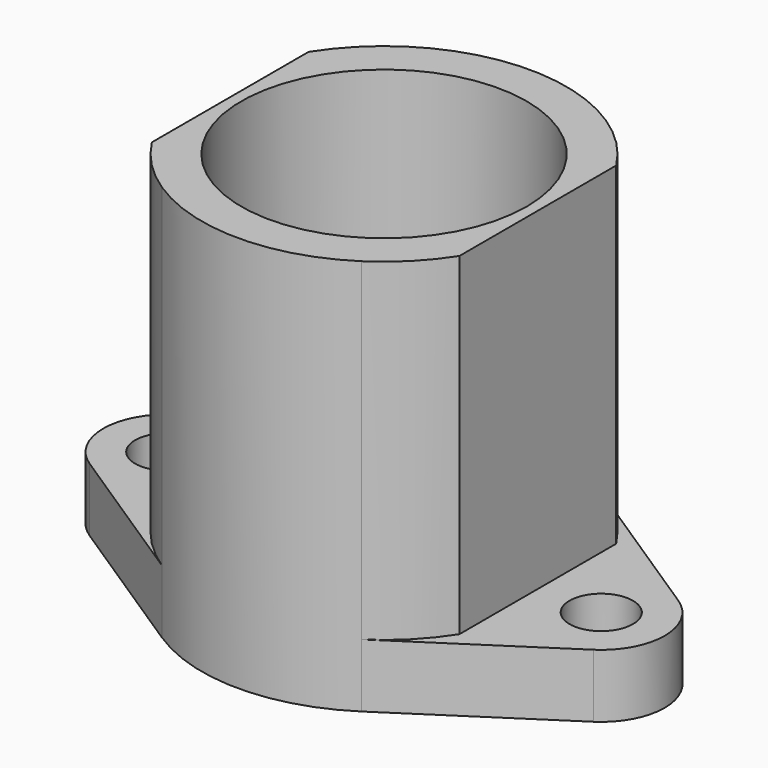
from build123d import *

# Parameters (mm, degrees)
F0_R     = 11.43
F0_R_2   = 2.54
F2_DEPTH = 5.08
F1_R     = 11.43
F3_DEPTH = 31.75


with BuildPart() as f2:
    # F0 (on Top) → F2 (new body)
    with BuildSketch(Plane.XY):
        with BuildLine():
            Line((12.319, 0), (12.319, 7.84527))
            ThreePointArc((12.319, 7.84527), (10.390293, 10.263909), (7.995438, 12.22207))
            ThreePointArc((7.995438, 12.22207), (0, 14.605), (-7.995438, 12.22207))
            ThreePointArc((-7.995438, 12.22207), (-10.390293, 10.263909), (-12.319, 7.84527))
            Line((-12.319, 7.84527), (-12.319, 0))
            Line((-12.319, 0), (-12.319, -7.84527))
            ThreePointArc((-12.319, -7.84527), (-10.390293, -10.263909), (-7.995438, -12.22207))
            ThreePointArc((-7.995438, -12.22207), (0, -14.605), (7.995438, -12.22207))
            ThreePointArc((7.995438, -12.22207), (10.390293, -10.263909), (12.319, -7.84527))
            Line((12.319, -7.84527), (12.319, 0))
        make_face()
        Circle(F0_R, mode=Mode.SUBTRACT)
        with BuildLine():
            ThreePointArc((7.995438, 12.22207), (10.390293, 10.263909), (12.319, 7.84527))
            Line((12.319, 7.84527), (12.319, 0))
            Line((12.319, 0), (12.319, -7.84527))
            ThreePointArc((12.319, -7.84527), (10.390293, -10.263909), (7.995438, -12.22207))
            Line((7.995438, -12.22207), (20.180022, -4.251155))
            ThreePointArc((20.180022, -4.251155), (22.479, 0), (20.180022, 4.251155))
            Line((20.180022, 4.251155), (7.995438, 12.22207))
        make_face()
        with Locations((17.399, 0)):
            Circle(F0_R_2, mode=Mode.SUBTRACT)
        with BuildLine():
            ThreePointArc((-12.319, 7.84527), (-10.390293, 10.263909), (-7.995438, 12.22207))
            Line((-7.995438, 12.22207), (-20.180022, 4.251155))
            ThreePointArc((-20.180022, 4.251155), (-22.479, 0), (-20.180022, -4.251155))
            Line((-20.180022, -4.251155), (-7.995438, -12.22207))
            ThreePointArc((-7.995438, -12.22207), (-10.390293, -10.263909), (-12.319, -7.84527))
            Line((-12.319, -7.84527), (-12.319, 0))
            Line((-12.319, 0), (-12.319, 7.84527))
        make_face()
        with Locations((-17.399, 0)):
            Circle(F0_R_2, mode=Mode.SUBTRACT)
    extrude(amount=F2_DEPTH)

    # F1 (on face) → F3 (join)
    with BuildSketch(Plane.XY):
        with BuildLine():
            Line((12.319, -7.84527), (12.319, 0))
            Line((12.319, 0), (12.319, 7.84527))
            ThreePointArc((12.319, 7.84527), (10.390293, 10.263909), (7.995438, 12.22207))
            ThreePointArc((7.995438, 12.22207), (0, 14.605), (-7.995438, 12.22207))
            ThreePointArc((-7.995438, 12.22207), (-10.390293, 10.263909), (-12.319, 7.84527))
            Line((-12.319, 7.84527), (-12.319, 0))
            Line((-12.319, 0), (-12.319, -7.84527))
            ThreePointArc((-12.319, -7.84527), (-10.390293, -10.263909), (-7.995438, -12.22207))
            ThreePointArc((-7.995438, -12.22207), (0, -14.605), (7.995438, -12.22207))
            ThreePointArc((7.995438, -12.22207), (10.390293, -10.263909), (12.319, -7.84527))
        make_face()
        Circle(F1_R, mode=Mode.SUBTRACT)
    extrude(amount=F3_DEPTH)


solid = f2.part
